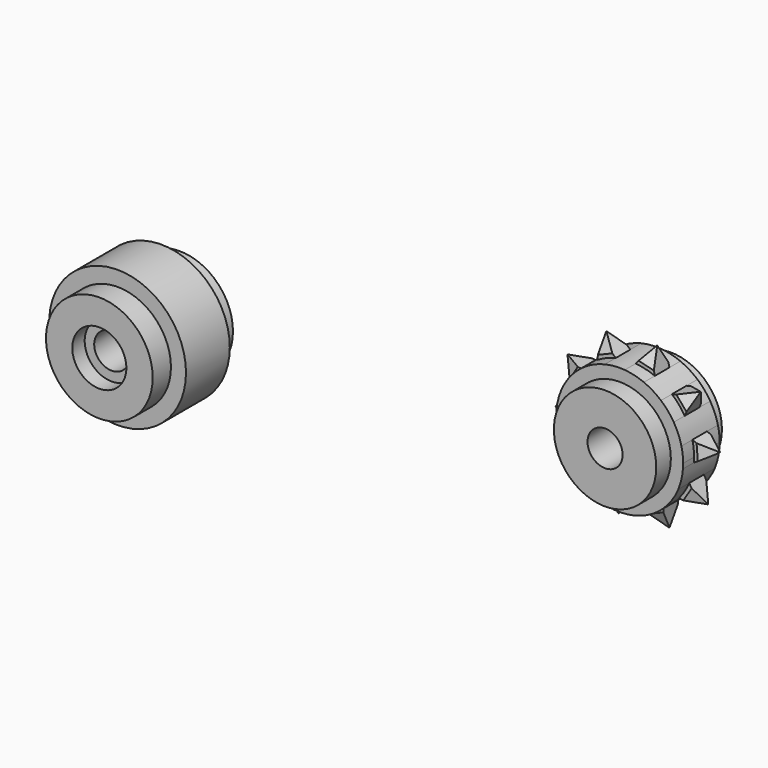
from build123d import *

# Parameters (mm, degrees)
F0_R         = 5.85
F1_DEPTH     = 5.5
F0_R_2       = 7.5
F2_DEPTH     = 3
F3_R         = 1.9225179896
F4_DEPTH     = 25
F3_R_2       = 2.965
F5_DEPTH     = 1.7
F6_R         = 5.61099
F6_R_2       = 1.92252
F7_DEPTH     = 2.5
F8_DEPTH     = 1
F9_DEPTH     = 4.5
F10_SIZE2    = 1.6974097914
F10_SIZE     = 0.98
F10_2_SIZE2  = 1.6974097914
F10_2_SIZE   = 0.98
F10_3_SIZE2  = 1.6974097914
F10_3_SIZE   = 0.98
F10_4_SIZE2  = 1.6974097914
F10_4_SIZE   = 0.98
F10_5_SIZE2  = 1.6974097914
F10_5_SIZE   = 0.98
F10_6_SIZE2  = 1.6974097914
F10_6_SIZE   = 0.98
F10_7_SIZE2  = 1.6974097914
F10_7_SIZE   = 0.98
F10_8_SIZE2  = 1.6974097914
F10_8_SIZE   = 0.98
F10_9_SIZE2  = 1.6974097914
F10_9_SIZE   = 0.98
F10_10_SIZE2 = 1.6974097914
F10_10_SIZE  = 0.98
F11_SIZE2    = 0.9814954576
F11_SIZE     = 1.7
F11_2_SIZE2  = 0.9814954576
F11_2_SIZE   = 1.7
F11_3_SIZE2  = 0.9814954576
F11_3_SIZE   = 1.7
F11_4_SIZE2  = 0.9814954576
F11_4_SIZE   = 1.7
F11_5_SIZE2  = 0.9814954576
F11_5_SIZE   = 1.7
F11_6_SIZE2  = 0.9814954576
F11_6_SIZE   = 1.7
F11_7_SIZE2  = 0.9814954576
F11_7_SIZE   = 1.7
F11_8_SIZE2  = 0.9814954576
F11_8_SIZE   = 1.7
F11_9_SIZE2  = 0.9814954576
F11_9_SIZE   = 1.7
F11_10_SIZE2 = 0.9814954576
F11_10_SIZE  = 1.7


with BuildPart() as f1:
    # F0 (on Front) → F1 (new body, symmetric)
    with BuildSketch(Plane.XZ):
        with Locations((-40.4290147126, 7.5014946051)):
            Circle(F0_R)
    extrude(amount=F1_DEPTH, both=True)

    # F0 (on Front) → F2 (join, symmetric)
    with BuildSketch(Plane.XZ):
        with Locations((-40.4290147126, 7.5014946051)):
            Circle(F0_R_2)
        with Locations((-40.4290147126, 7.5014946051)):
            Circle(F0_R, mode=Mode.SUBTRACT)
    extrude(amount=F2_DEPTH, both=True)

    # F3 (on face) → F4 (cut)
    with BuildSketch(Plane.XZ.offset(5.5)):
        with Locations((-40.4290147126, 7.5014946051)):
            Circle(F3_R)
    extrude(amount=-F4_DEPTH, mode=Mode.SUBTRACT)

    # F3 (on face) → F5 (cut)
    with BuildSketch(Plane.XZ.offset(5.5)):
        with Locations((-40.4290147126, 7.5014946051)):
            Circle(F3_R_2)
        with Locations((-40.4290147126, 7.5014946051)):
            Circle(F3_R, mode=Mode.SUBTRACT)
    extrude(amount=-F5_DEPTH, mode=Mode.SUBTRACT)


with BuildPart() as f7:
    # F6 (on Front) → F7 (new body, symmetric)
    with BuildSketch(Plane.XZ):
        with BuildLine():
            ThreePointArc((12.5840362785, 22.9104701209), (11.5559060371, 22.5761838649), (10.5919367916, 22.0867327559))
            Line((10.5919367916, 22.0867327559), (10.4874240314, 20.5142553084))
            Line((10.4874240314, 20.5142553084), (8.9181315816, 20.6589254406))
            ThreePointArc((8.9181315816, 20.6589254406), (8.2828452752, 19.7841623852), (7.7906699171, 18.821581214))
            ThreePointArc((7.7906699171, 18.821581214), (7.4481855965, 17.7725724525), (7.27577714, 16.6826228135))
            ThreePointArc((7.27577714, 16.6826228135), (7.275992545, 15.6015127137), (7.4436053327, 14.5334747707))
            Line((7.4436053327, 14.5334747707), (8.9068240369, 13.9481549745))
            Line((8.9068240369, 13.9481549745), (8.2842965288, 12.5003746936))
            ThreePointArc((8.2842965288, 12.5003746936), (8.9199313679, 11.625864862), (9.6833099134, 10.8603243402))
            Line((9.6833099134, 10.8603243402), (11.2111210556, 11.2468490531))
            Line((11.2111210556, 11.2468490531), (11.5584696198, 9.7096577133))
            ThreePointArc((11.5584696198, 9.7096577133), (12.5867329888, 9.3757811821), (13.654292634, 9.205148541))
            Line((13.654292634, 9.205148541), (14.6631242865, 10.4158784601))
            Line((14.6631242865, 10.4158784601), (15.8476735773, 9.3764309061))
            ThreePointArc((15.8476735773, 9.3764309061), (16.8758038187, 9.7107171621), (17.8397730642, 10.200168271))
            Line((17.8397730642, 10.200168271), (17.9442858244, 11.7726457186))
            Line((17.9442858244, 11.7726457186), (19.5135782742, 11.6279755863))
            ThreePointArc((19.5135782742, 11.6279755863), (20.1488645806, 12.5027386418), (20.6410399387, 13.465319813))
            Line((20.6410399387, 13.465319813), (19.8013134846, 14.7989118505))
            Line((19.8013134846, 14.7989118505), (21.1559327158, 15.6042782134))
            ThreePointArc((21.1559327158, 15.6042782134), (21.1716151628, 15.8736616591), (21.1768452649, 16.1434505135))
            ThreePointArc((21.1768452649, 16.1434505135), (21.1294990634, 16.9539511242), (20.9881045231, 17.7534262562))
            Line((20.9881045231, 17.7534262562), (19.5248858189, 18.3387460525))
            Line((19.5248858189, 18.3387460525), (20.147413327, 19.7865263334))
            ThreePointArc((20.147413327, 19.7865263334), (19.5117784879, 20.661036165), (18.7483999424, 21.4265766868))
            Line((18.7483999424, 21.4265766868), (17.2205888002, 21.0400519739))
            Line((17.2205888002, 21.0400519739), (16.873240236, 22.5772433137))
            ThreePointArc((16.873240236, 22.5772433137), (15.8449768669, 22.9111198449), (14.7774172217, 23.081752486))
            Line((14.7774172217, 23.081752486), (13.7685855693, 21.8710225668))
            Line((13.7685855693, 21.8710225668), (12.5840362785, 22.9104701209))
        make_face()
        with Locations((14.2158549279, 16.1434505135)):
            Circle(F6_R, mode=Mode.SUBTRACT)
        with Locations((14.2158549279, 16.1434505135)):
            Circle(F6_R)
        with Locations((14.2158549279, 16.1434505135)):
            Circle(F6_R_2, mode=Mode.SUBTRACT)
        with BuildLine():
            Line((8.9068240369, 13.9481549745), (7.4436053327, 14.5334747707))
            ThreePointArc((7.4436053327, 14.5334747707), (7.7831215765, 13.4835016227), (8.2842965288, 12.5003746936))
            Line((8.2842965288, 12.5003746936), (8.9068240369, 13.9481549745))
        make_face()
        with BuildLine():
            Line((10.4874240314, 20.5142553084), (10.5919367916, 22.0867327559))
            ThreePointArc((10.5919367916, 22.0867327559), (9.6982692764, 21.4393740735), (8.9181315816, 20.6589254406))
            Line((8.9181315816, 20.6589254406), (10.4874240314, 20.5142553084))
        make_face()
        with BuildLine():
            ThreePointArc((14.7774172217, 23.081752486), (13.6739171282, 23.0833128963), (12.5840362785, 22.9104701209))
            Line((12.5840362785, 22.9104701209), (13.7685855693, 21.8710225668))
            Line((13.7685855693, 21.8710225668), (14.7774172217, 23.081752486))
        make_face()
        with BuildLine():
            ThreePointArc((18.7483999424, 21.4265766868), (17.8565667996, 22.0764601662), (16.873240236, 22.5772433137))
            Line((16.873240236, 22.5772433137), (17.2205888002, 21.0400519739))
            Line((17.2205888002, 21.0400519739), (18.7483999424, 21.4265766868))
        make_face()
        with BuildLine():
            ThreePointArc((20.9881045231, 17.7534262562), (20.6485882793, 18.8033994043), (20.147413327, 19.7865263334))
            Line((20.147413327, 19.7865263334), (19.5248858189, 18.3387460525))
            Line((19.5248858189, 18.3387460525), (20.9881045231, 17.7534262562))
        make_face()
        with BuildLine():
            ThreePointArc((20.6410399387, 13.465319813), (20.9835242593, 14.5143285744), (21.1559327158, 15.6042782134))
            Line((21.1559327158, 15.6042782134), (19.8013134846, 14.7989118505))
            Line((19.8013134846, 14.7989118505), (20.6410399387, 13.465319813))
        make_face()
        with BuildLine():
            ThreePointArc((17.8397730642, 10.200168271), (18.7334405794, 10.8475269535), (19.5135782742, 11.6279755863))
            Line((19.5135782742, 11.6279755863), (17.9442858244, 11.7726457186))
            Line((17.9442858244, 11.7726457186), (17.8397730642, 10.200168271))
        make_face()
        with BuildLine():
            Line((14.6631242865, 10.4158784601), (13.654292634, 9.205148541))
            ThreePointArc((13.654292634, 9.205148541), (14.7577927276, 9.2035881306), (15.8476735773, 9.3764309061))
            Line((15.8476735773, 9.3764309061), (14.6631242865, 10.4158784601))
        make_face()
        with BuildLine():
            Line((11.2111210556, 11.2468490531), (9.6833099134, 10.8603243402))
            ThreePointArc((9.6833099134, 10.8603243402), (10.5751430562, 10.2104408608), (11.5584696198, 9.7096577133))
            Line((11.5584696198, 9.7096577133), (11.2111210556, 11.2468490531))
        make_face()
    extrude(amount=F7_DEPTH, both=True)

    # F6 (on Front) → F8 (join, symmetric)
    with BuildSketch(Plane.XZ):
        with BuildLine():
            ThreePointArc((7.4436053327, 14.5334747707), (7.275992545, 15.6015127137), (7.27577714, 16.6826228135))
            Line((7.27577714, 16.6826228135), (5.2221611807, 15.4616795566))
            Line((5.2221611807, 15.4616795566), (5.2253515138, 15.4208252875))
            Line((5.2253515138, 15.4208252875), (7.4436053327, 14.5334747707))
        make_face()
        with BuildLine():
            ThreePointArc((7.7906699171, 18.821581214), (8.2828452752, 19.7841623852), (8.9181315816, 20.6589254406))
            Line((8.9181315816, 20.6589254406), (6.5390689303, 20.8782467714))
            Line((6.5390689303, 20.8782467714), (6.5176364272, 20.8433197426))
            Line((6.5176364272, 20.8433197426), (7.7906699171, 18.821581214))
        make_face()
        with BuildLine():
            ThreePointArc((9.6833099134, 10.8603243402), (8.9199313679, 11.625864862), (8.2842965288, 12.5003746936))
            Line((8.2842965288, 12.5003746936), (7.3405387581, 10.3055256749))
            Line((7.3405387581, 10.3055256749), (7.3671333287, 10.2743491076))
            Line((7.3671333287, 10.2743491076), (9.6833099134, 10.8603243402))
        make_face()
        with BuildLine():
            ThreePointArc((13.654292634, 9.205148541), (12.5867329888, 9.3757811821), (11.5584696198, 9.7096577133))
            Line((11.5584696198, 9.7096577133), (12.0850534289, 7.3792606577))
            Line((12.0850534289, 7.3792606577), (12.124894015, 7.3696701814))
            Line((12.124894015, 7.3696701814), (13.654292634, 9.205148541))
        make_face()
        with BuildLine():
            ThreePointArc((17.8397730642, 10.200168271), (16.8758038187, 9.7107171621), (15.8476735773, 9.3764309061))
            Line((15.8476735773, 9.3764309061), (17.6434618491, 7.8006182816))
            Line((17.6434618491, 7.8006182816), (17.6813307008, 7.8162771321))
            Line((17.6813307008, 7.8162771321), (17.8397730642, 10.200168271))
        make_face()
        with BuildLine():
            Line((21.9140734286, 11.4435812844), (20.6410399387, 13.465319813))
            ThreePointArc((20.6410399387, 13.465319813), (20.1488645806, 12.5027386418), (19.5135782742, 11.6279755863))
            Line((19.5135782742, 11.6279755863), (21.8926409254, 11.4086542556))
            Line((21.8926409254, 11.4086542556), (21.9140734286, 11.4435812844))
        make_face()
        with BuildLine():
            Line((23.206358342, 16.8660757395), (20.9881045231, 17.7534262562))
            ThreePointArc((20.9881045231, 17.7534262562), (21.1294990634, 16.9539511242), (21.1768452649, 16.1434505135))
            ThreePointArc((21.1768452649, 16.1434505135), (21.1716151628, 15.8736616591), (21.1559327158, 15.6042782134))
            Line((21.1559327158, 15.6042782134), (23.2095486751, 16.8252214703))
            Line((23.2095486751, 16.8252214703), (23.206358342, 16.8660757395))
        make_face()
        with BuildLine():
            Line((21.0645765271, 22.0125519193), (18.7483999424, 21.4265766868))
            ThreePointArc((18.7483999424, 21.4265766868), (19.5117784879, 20.661036165), (20.147413327, 19.7865263334))
            Line((20.147413327, 19.7865263334), (21.0911710977, 21.9813753521))
            Line((21.0911710977, 21.9813753521), (21.0645765271, 22.0125519193))
        make_face()
        with BuildLine():
            Line((16.3068158408, 24.9172308456), (14.7774172217, 23.081752486))
            ThreePointArc((14.7774172217, 23.081752486), (15.8449768669, 22.9111198449), (16.873240236, 22.5772433137))
            Line((16.873240236, 22.5772433137), (16.3466564269, 24.9076403692))
            Line((16.3466564269, 24.9076403692), (16.3068158408, 24.9172308456))
        make_face()
        with BuildLine():
            Line((10.7882480067, 24.4862827454), (10.750379155, 24.4706238948))
            Line((10.750379155, 24.4706238948), (10.5919367916, 22.0867327559))
            ThreePointArc((10.5919367916, 22.0867327559), (11.5559060371, 22.5761838649), (12.5840362785, 22.9104701209))
            Line((12.5840362785, 22.9104701209), (10.7882480067, 24.4862827454))
        make_face()
    extrude(amount=F8_DEPTH, both=True)

    # F6 (on Front) → F9 (join, symmetric)
    with BuildSketch(Plane.XZ):
        with Locations((14.2158549279, 16.1434505135)):
            Circle(F6_R)
        with Locations((14.2158549279, 16.1434505135)):
            Circle(F6_R_2, mode=Mode.SUBTRACT)
    extrude(amount=F9_DEPTH, both=True)

    # F10
    f10_edges = [f7.edges().sort_by_distance(p)[0] for p in [
        (21.903357, -1, 11.426118),
    ]]
    f10_side = f7.faces().sort_by_distance((21.903357, 0, 11.426118))[0]
    chamfer(f10_edges, length=F10_SIZE, length2=F10_SIZE2, reference=f10_side)

    # F10#2
    f10_2_edges = [f7.edges().sort_by_distance(p)[0] for p in [
        (17.662396, -1, 7.808448),
    ]]
    f10_2_side = f7.faces().sort_by_distance((17.662396, 0, 7.808448))[0]
    chamfer(f10_2_edges, length=F10_2_SIZE, length2=F10_2_SIZE2, reference=f10_2_side)

    # F10#3
    f10_3_edges = [f7.edges().sort_by_distance(p)[0] for p in [
        (12.104974, -1, 7.374465),
    ]]
    f10_3_side = f7.faces().sort_by_distance((12.104974, 0, 7.374465))[0]
    chamfer(f10_3_edges, length=F10_3_SIZE, length2=F10_3_SIZE2, reference=f10_3_side)

    # F10#4
    f10_4_edges = [f7.edges().sort_by_distance(p)[0] for p in [
        (7.353836, -1, 10.289937),
    ]]
    f10_4_side = f7.faces().sort_by_distance((7.353836, 0, 10.289937))[0]
    chamfer(f10_4_edges, length=F10_4_SIZE, length2=F10_4_SIZE2, reference=f10_4_side)

    # F10#5
    f10_5_edges = [f7.edges().sort_by_distance(p)[0] for p in [
        (5.223756, -1, 15.441252),
    ]]
    f10_5_side = f7.faces().sort_by_distance((5.223756, 0, 15.441252))[0]
    chamfer(f10_5_edges, length=F10_5_SIZE, length2=F10_5_SIZE2, reference=f10_5_side)

    # F10#6
    f10_6_edges = [f7.edges().sort_by_distance(p)[0] for p in [
        (6.528353, -1, 20.860783),
    ]]
    f10_6_side = f7.faces().sort_by_distance((6.528353, 0, 20.860783))[0]
    chamfer(f10_6_edges, length=F10_6_SIZE, length2=F10_6_SIZE2, reference=f10_6_side)

    # F10#7
    f10_7_edges = [f7.edges().sort_by_distance(p)[0] for p in [
        (10.769314, -1, 24.478453),
    ]]
    f10_7_side = f7.faces().sort_by_distance((10.769314, 0, 24.478453))[0]
    chamfer(f10_7_edges, length=F10_7_SIZE, length2=F10_7_SIZE2, reference=f10_7_side)

    # F10#8
    f10_8_edges = [f7.edges().sort_by_distance(p)[0] for p in [
        (16.326736, -1, 24.912436),
    ]]
    f10_8_side = f7.faces().sort_by_distance((16.326736, 0, 24.912436))[0]
    chamfer(f10_8_edges, length=F10_8_SIZE, length2=F10_8_SIZE2, reference=f10_8_side)

    # F10#9
    f10_9_edges = [f7.edges().sort_by_distance(p)[0] for p in [
        (21.077874, -1, 21.996964),
    ]]
    f10_9_side = f7.faces().sort_by_distance((21.077874, 0, 21.996964))[0]
    chamfer(f10_9_edges, length=F10_9_SIZE, length2=F10_9_SIZE2, reference=f10_9_side)

    # F10#10
    f10_10_edges = [f7.edges().sort_by_distance(p)[0] for p in [
        (23.207954, -1, 16.845649),
    ]]
    f10_10_side = f7.faces().sort_by_distance((23.207954, 0, 16.845649))[0]
    chamfer(f10_10_edges, length=F10_10_SIZE, length2=F10_10_SIZE2, reference=f10_10_side)

    # F11
    f11_edges = [f7.edges().sort_by_distance(p)[0] for p in [
        (21.903357, 1, 11.426118),
    ]]
    f11_side = f7.faces().sort_by_distance((20.729349, 1, 12.146532))[0]
    chamfer(f11_edges, length=F11_SIZE, length2=F11_SIZE2, reference=f11_side)

    # F11#2
    f11_2_edges = [f7.edges().sort_by_distance(p)[0] for p in [
        (23.207954, 1, 16.845649),
    ]]
    f11_2_side = f7.faces().sort_by_distance((21.834712, 1, 16.738411))[0]
    chamfer(f11_2_edges, length=F11_2_SIZE, length2=F11_2_SIZE2, reference=f11_2_side)

    # F11#3
    f11_3_edges = [f7.edges().sort_by_distance(p)[0] for p in [
        (21.077874, 1, 21.996964),
    ]]
    f11_3_side = f7.faces().sort_by_distance((20.029931, 1, 21.103036))[0]
    chamfer(f11_3_edges, length=F11_3_SIZE, length2=F11_3_SIZE2, reference=f11_3_side)

    # F11#4
    f11_4_edges = [f7.edges().sort_by_distance(p)[0] for p in [
        (16.326736, 1, 24.912436),
    ]]
    f11_4_side = f7.faces().sort_by_distance((16.00437, 1, 23.573268))[0]
    chamfer(f11_4_edges, length=F11_4_SIZE, length2=F11_4_SIZE2, reference=f11_4_side)

    # F11#5
    f11_5_edges = [f7.edges().sort_by_distance(p)[0] for p in [
        (10.769314, 1, 24.478453),
    ]]
    f11_5_side = f7.faces().sort_by_distance((11.295657, 1, 23.205562))[0]
    chamfer(f11_5_edges, length=F11_5_SIZE, length2=F11_5_SIZE2, reference=f11_5_side)

    # F11#6
    f11_6_edges = [f7.edges().sort_by_distance(p)[0] for p in [
        (6.528353, 1, 20.860783),
    ]]
    f11_6_side = f7.faces().sort_by_distance((7.70236, 1, 20.140369))[0]
    chamfer(f11_6_edges, length=F11_6_SIZE, length2=F11_6_SIZE2, reference=f11_6_side)

    # F11#7
    f11_7_edges = [f7.edges().sort_by_distance(p)[0] for p in [
        (5.223756, 1, 15.441252),
    ]]
    f11_7_side = f7.faces().sort_by_distance((6.596997, 1, 15.54849))[0]
    chamfer(f11_7_edges, length=F11_7_SIZE, length2=F11_7_SIZE2, reference=f11_7_side)

    # F11#8
    f11_8_edges = [f7.edges().sort_by_distance(p)[0] for p in [
        (7.353836, 1, 10.289937),
    ]]
    f11_8_side = f7.faces().sort_by_distance((8.401779, 1, 11.183865))[0]
    chamfer(f11_8_edges, length=F11_8_SIZE, length2=F11_8_SIZE2, reference=f11_8_side)

    # F11#9
    f11_9_edges = [f7.edges().sort_by_distance(p)[0] for p in [
        (12.104974, 1, 7.374465),
    ]]
    f11_9_side = f7.faces().sort_by_distance((12.42734, 1, 8.713633))[0]
    chamfer(f11_9_edges, length=F11_9_SIZE, length2=F11_9_SIZE2, reference=f11_9_side)

    # F11#10
    f11_10_edges = [f7.edges().sort_by_distance(p)[0] for p in [
        (17.662396, 1, 7.808448),
    ]]
    f11_10_side = f7.faces().sort_by_distance((17.136053, 1, 9.081339))[0]
    chamfer(f11_10_edges, length=F11_10_SIZE, length2=F11_10_SIZE2, reference=f11_10_side)


solid = Compound([f1.part, f7.part])
